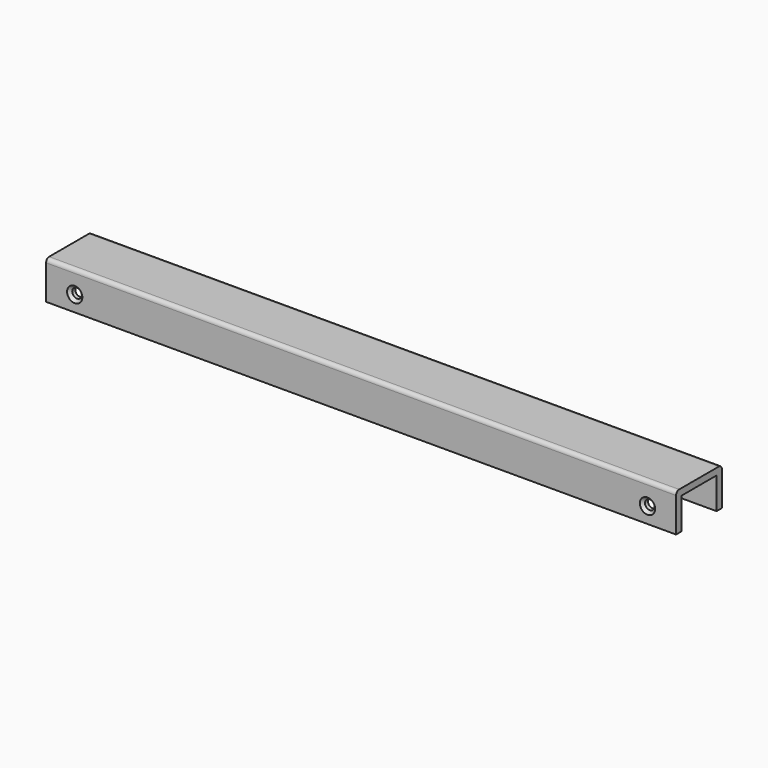
from build123d import *

# Parameters (mm, degrees)
F0_W           = 838.2
F0_H           = 50.8
F1_DEPTH       = 76.2
F3_T           = -8.89
F4_D           = 12.7
F4_CSINK_D     = 20.32
F4_CSINK_ANGLE = 90
F5_R           = 5.08


with BuildPart() as f1:
    # F0 (on Front) → F1 (new body)
    with BuildSketch(Plane.XZ):
        with Locations((419.1, -25.4)):
            Rectangle(F0_W, F0_H)
    extrude(amount=F1_DEPTH)

    # F3
    f3_openings = [f1.faces().sort_by_distance(p)[0] for p in [
        (838.2, -38.1, -25.4),
        (419.1, -38.1, -50.8),
        (0, -38.1, -25.4),
    ]]
    offset(amount=F3_T, openings=f3_openings)

    # F4 (through all)
    with Locations(Plane.XZ.offset(76.2)):
        with Locations((38.1, -29.845), (800.1, -29.845)):
            CounterSinkHole(F4_D / 2, F4_CSINK_D / 2, counter_sink_angle=F4_CSINK_ANGLE)

    # F5
    f5_edges = [f1.edges().sort_by_distance(p)[0] for p in [
        (419.1, -76.2, 0),
        (419.1, 0, 0),
    ]]
    fillet(f5_edges, radius=F5_R)


solid = f1.part
